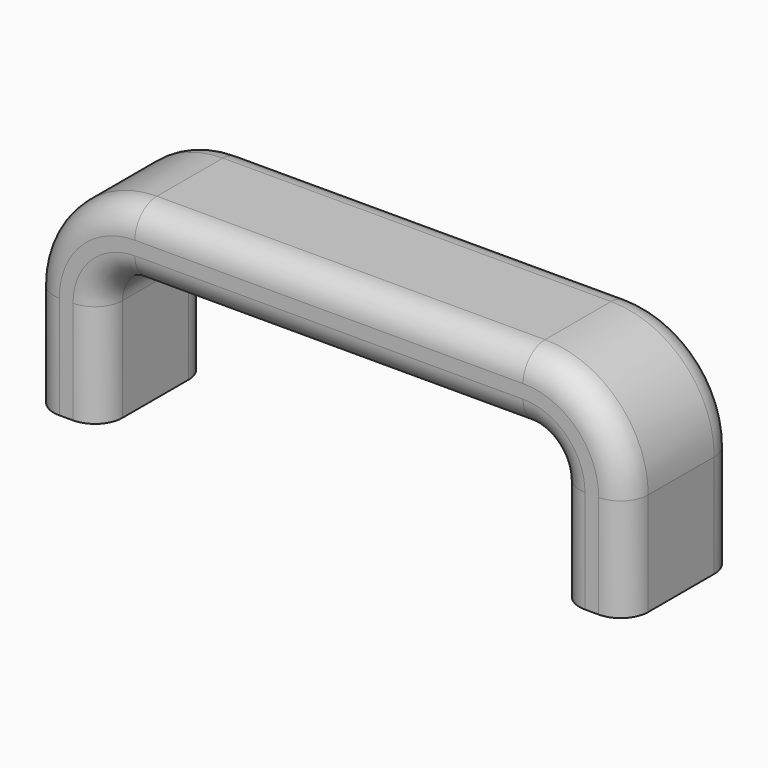
from build123d import *

# Parameters (mm, degrees)
F1_DEPTH = 25.4
F2_R     = 5.08
F3_R     = 2.54
F4_DEPTH = 25.4


with BuildPart() as f1:
    # F0 (on Front) → F1 (new body)
    with BuildSketch(Plane.XZ):
        with BuildLine():
            ThreePointArc((54.901558, 19.05), (49.321942, 32.520384), (35.851558, 38.1))
            Line((35.851558, 38.1), (-35.851558, 38.1))
            ThreePointArc((-35.851558, 38.1), (-49.321942, 32.520384), (-54.901558, 19.05))
            Line((-54.901558, 19.05), (-54.901558, 0))
            Line((-54.901558, 0), (-42.201558, 0))
            Line((-42.201558, 0), (-42.201558, 19.05))
            ThreePointArc((-42.201558, 19.05), (-40.341686, 23.540128), (-35.851558, 25.4))
            Line((-35.851558, 25.4), (35.851558, 25.4))
            ThreePointArc((35.851558, 25.4), (40.341686, 23.540128), (42.201558, 19.05))
            Line((42.201558, 19.05), (42.201558, 0))
            Line((42.201558, 0), (54.901558, 0))
            Line((54.901558, 0), (54.901558, 19.05))
        make_face()
    extrude(amount=F1_DEPTH)

    # F2
    f2_edges = [f1.edges().sort_by_distance(p)[0] for p in [
        (0, -25.4, 38.1),
        (0, 0, 38.1),
        (0, -25.4, 25.4),
        (0, 0, 25.4),
    ]]
    fillet(f2_edges, radius=F2_R)

    # F3 (on Top) → F4 (cut)
    with BuildSketch(Plane.XY):
        with Locations((-48.551558, -12.7)):
            Circle(F3_R)
        with Locations((48.551558, -12.7)):
            Circle(F3_R)
    extrude(amount=F4_DEPTH, mode=Mode.SUBTRACT)


solid = f1.part
